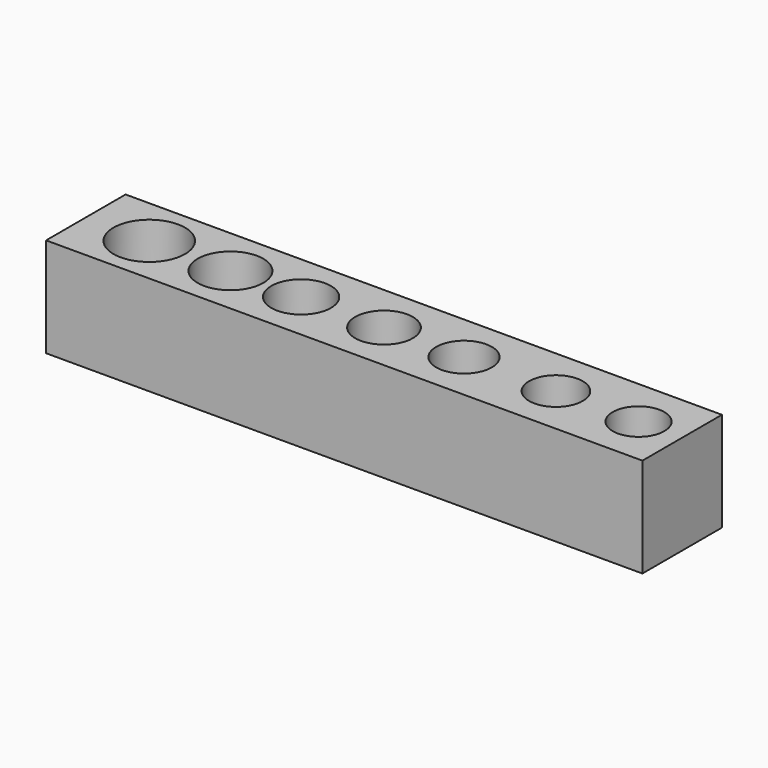
from build123d import *

# Parameters (mm, degrees)
F0_W     = 30
F0_H     = 5
F0_R     = 1.8
F0_R_2   = 1.65
F0_R_3   = 1.5
F0_R_4   = 1.45
F0_R_5   = 1.4
F0_R_6   = 1.35
F0_R_7   = 1.3
F1_DEPTH = 5


with BuildPart() as f1:
    # F0 (on Top) → F1 (new body)
    with BuildSketch(Plane.XY):
        Rectangle(F0_W, F0_H)
        with Locations((-11.808891, 0)):
            Circle(F0_R, mode=Mode.SUBTRACT)
        with Locations((-7.724749, 0)):
            Circle(F0_R_2, mode=Mode.SUBTRACT)
        with Locations((-4.169474, 0)):
            Circle(F0_R_3, mode=Mode.SUBTRACT)
        Circle(F0_R_4, mode=Mode.SUBTRACT)
        with Locations((4.026892, 0)):
            Circle(F0_R_5, mode=Mode.SUBTRACT)
        with Locations((8.649488, 0)):
            Circle(F0_R_6, mode=Mode.SUBTRACT)
        with Locations((12.805938, 0)):
            Circle(F0_R_7, mode=Mode.SUBTRACT)
    extrude(amount=F1_DEPTH)


solid = f1.part
